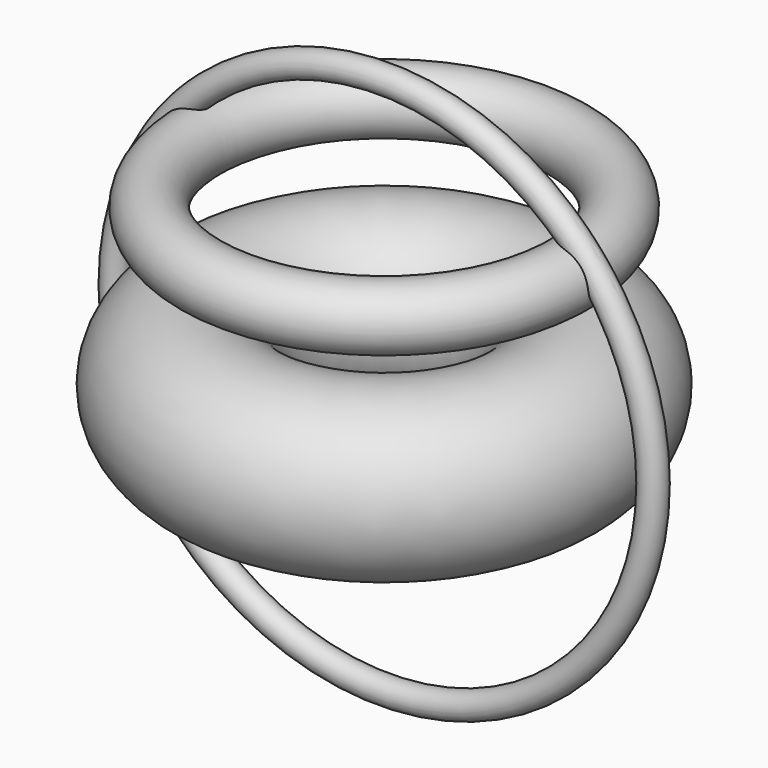
from build123d import *

# Parameters (mm, degrees)
F0_R = 31.546585
F2_R = 11.959046
F4_R = 5.049719


with BuildPart() as f1:
    # F0 (on Front) → F1 (revolve)
    with BuildSketch(Plane.XZ):
        with Locations((60.983222, 0)):
            Circle(F0_R)
    revolve(axis=Axis((0, 0, 2e-06), (0, 0, -1)))


with BuildPart() as f3:
    # F2 (on Front) → F3 (revolve)
    with BuildSketch(Plane.XZ):
        with Locations((70.730425, 59.938222)):
            Circle(F2_R)
    revolve(axis=Axis((0, 0, 58.443919), (0, 0, -1)))

    # F4 (on Top) → F5 (revolve)
    with BuildSketch(Plane.XY):
        with Locations((103.605144, 0)):
            Circle(F4_R)
    revolve(axis=Axis((0, 1.660341, 0), (0, -1, 0)))


solid = Compound([f1.part, f3.part])
